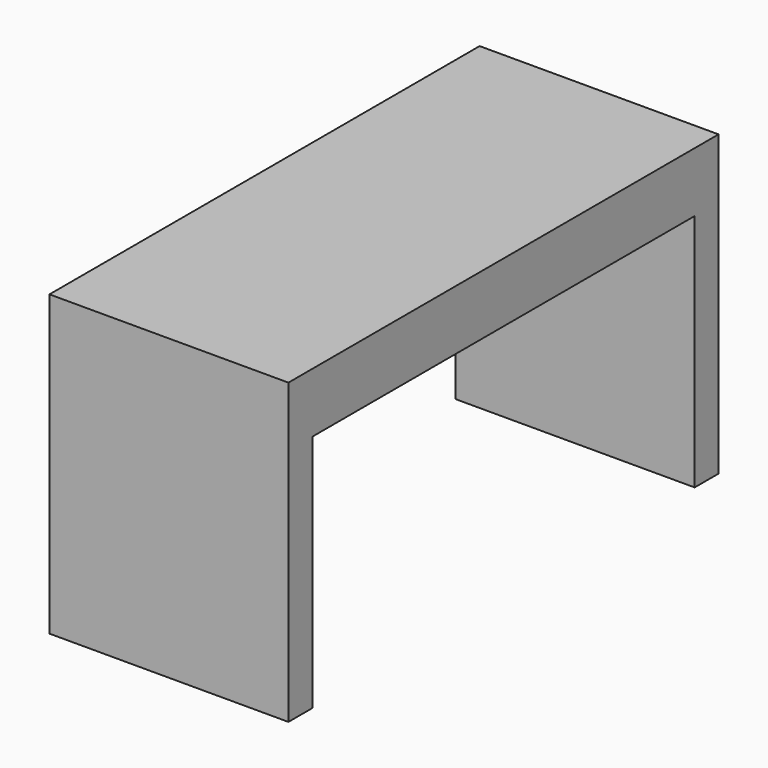
from build123d import *

# Parameters (mm, degrees)
F0_W     = 25.4
F0_H     = 3.175
F0_H_2   = 50.8
F1_DEPTH = 31.75
F2_DEPTH = 25.4


with BuildPart() as f1:
    # F0 (on Top) → F1 (new body)
    with BuildSketch(Plane.XY):
        with Locations((-16.626253, 23.70746)):
            Rectangle(F0_W, F0_H)
        with Locations((-16.626253, -3.28004)):
            Rectangle(F0_W, F0_H_2)
        with Locations((-16.626253, -30.26754)):
            Rectangle(F0_W, F0_H)
    extrude(amount=F1_DEPTH)

    # F0 (on Top) → F2 (cut)
    with BuildSketch(Plane.XY):
        with Locations((-16.626253, -3.28004)):
            Rectangle(F0_W, F0_H_2)
    extrude(amount=F2_DEPTH, mode=Mode.SUBTRACT)


solid = f1.part
